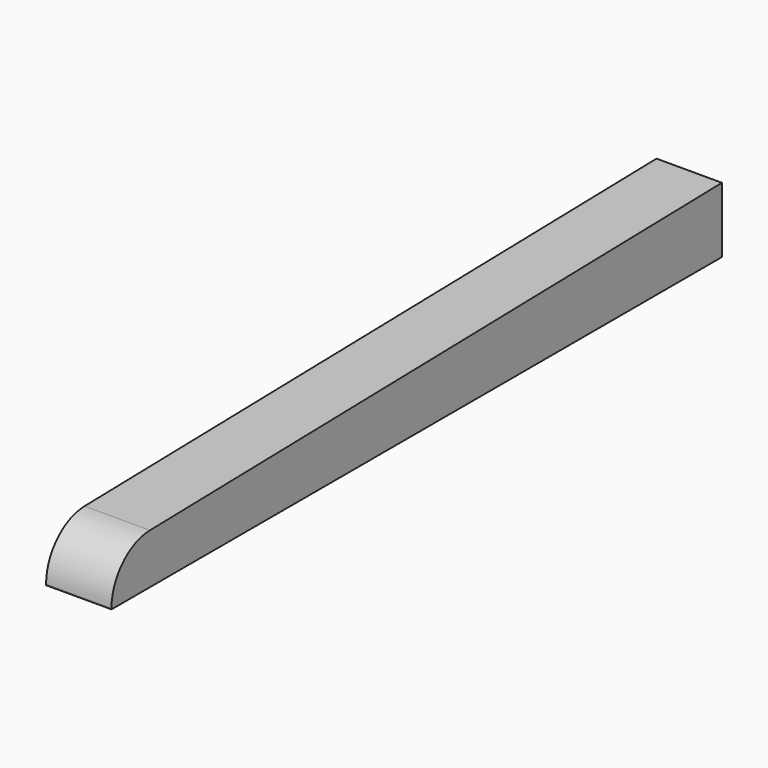
from build123d import *

# Parameters (mm, degrees)
F1_DEPTH = 38.1


with BuildPart() as f1:
    # F0 (on Right) → F1 (new body)
    with BuildSketch(Plane.YZ):
        with BuildLine():
            Line((-444.5, 0), (0, 0))
            Line((0, 0), (0, 38.1))
            Line((0, 38.1), (-416.537181, 29.174203))
            ThreePointArc((-416.537181, 29.174203), (-436.345868, 20.593727), (-444.5, 0.605762))
            Line((-444.5, 0.605762), (-444.5, 0))
        make_face()
    extrude(amount=F1_DEPTH)


solid = f1.part
